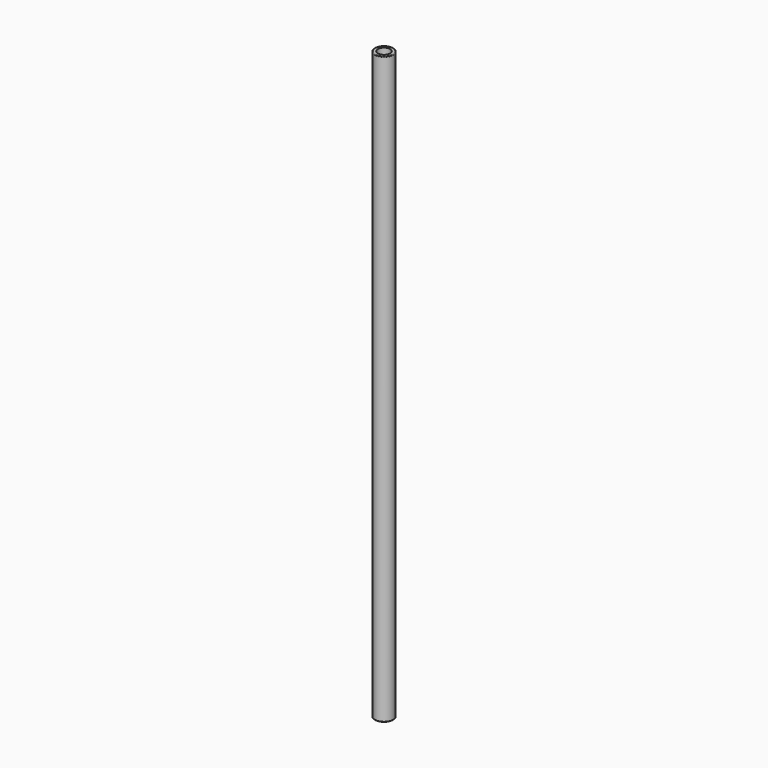
from build123d import *

# Parameters (mm, degrees)
F0_R     = 19.05
F0_R_2   = 12.7
F1_DEPTH = 609.6
F2_R     = 1.27


with BuildPart() as f1:
    # F0 (on Top) → F1 (new body, symmetric)
    with BuildSketch(Plane.XY):
        Circle(F0_R)
        Circle(F0_R_2, mode=Mode.SUBTRACT)
    extrude(amount=F1_DEPTH, both=True)

    # F2
    f2_edges = [f1.edges().sort_by_distance(p)[0] for p in [
        (-19.05, 0, -609.6),
        (19.05, 0, 0),
        (-19.05, 0, 609.6),
    ]]
    fillet(f2_edges, radius=F2_R)


solid = f1.part
